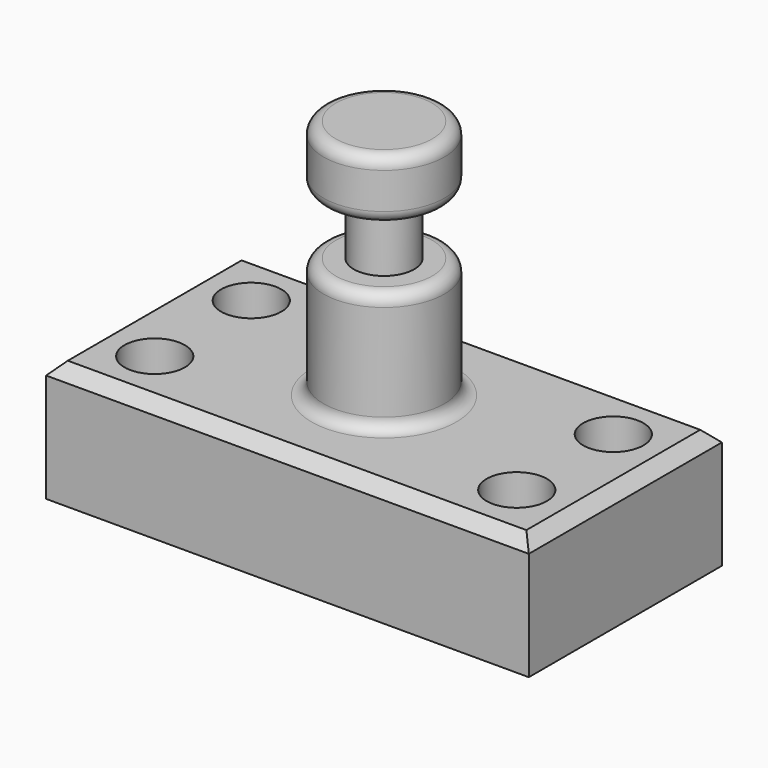
from build123d import *

# Parameters (mm, degrees)
F0_W     = 101.6
F0_H     = 50.8
F1_DEPTH = 25.4
F2_R     = 6.35
F3_DEPTH = 25.401
F4_W     = 12.7
F4_H     = 50.8
F6_W     = 12.7
F6_H     = 12.7
F8_R     = 2.54
F9_SIZE  = 2.54


with BuildPart() as f1:
    # F0 (on Top) → F1 (new body)
    with BuildSketch(Plane.XY):
        Rectangle(F0_W, F0_H)
    extrude(amount=F1_DEPTH)

    # F2 (on face) → F3 (cut, through all)
    with BuildSketch(Plane.XY.offset(25.4)):
        with Locations((38.1, 12.7)):
            Circle(F2_R)
        with Locations((-38.1, 12.7)):
            Circle(F2_R)
        with Locations((-38.1, -12.7)):
            Circle(F2_R)
        with Locations((38.1, -12.7)):
            Circle(F2_R)
    extrude(amount=-F3_DEPTH, mode=Mode.SUBTRACT)

    # F4 (on Front) → F5 (revolve)
    with BuildSketch(Plane.XZ):
        with Locations((-6.35, 50.8)):
            Rectangle(F4_W, F4_H)
    revolve(axis=Axis((0, 0, 50.8), (0, 0, 1)))

    # F6 (on Front) → F7 (revolve, cut)
    with BuildSketch(Plane.XZ):
        with Locations((-12.7, 57.15)):
            Rectangle(F6_W, F6_H)
    revolve(axis=Axis((0, 0, 40.8585630357), (0, 0, 1)), mode=Mode.SUBTRACT)

    # F8
    f8_edges = [f1.edges().sort_by_distance(p)[0] for p in [
        (12.7, 0, 50.8),
        (12.7, 0, 63.5),
        (12.7, 0, 25.4),
        (12.7, 0, 76.2),
    ]]
    fillet(f8_edges, radius=F8_R)

    # F9
    f9_edges = [f1.edges().sort_by_distance(p)[0] for p in [
        (-50.8, 0, 25.4),
        (0, -25.4, 25.4),
        (0, 25.4, 25.4),
        (50.8, 0, 25.4),
    ]]
    chamfer(f9_edges, length=F9_SIZE)


solid = f1.part
